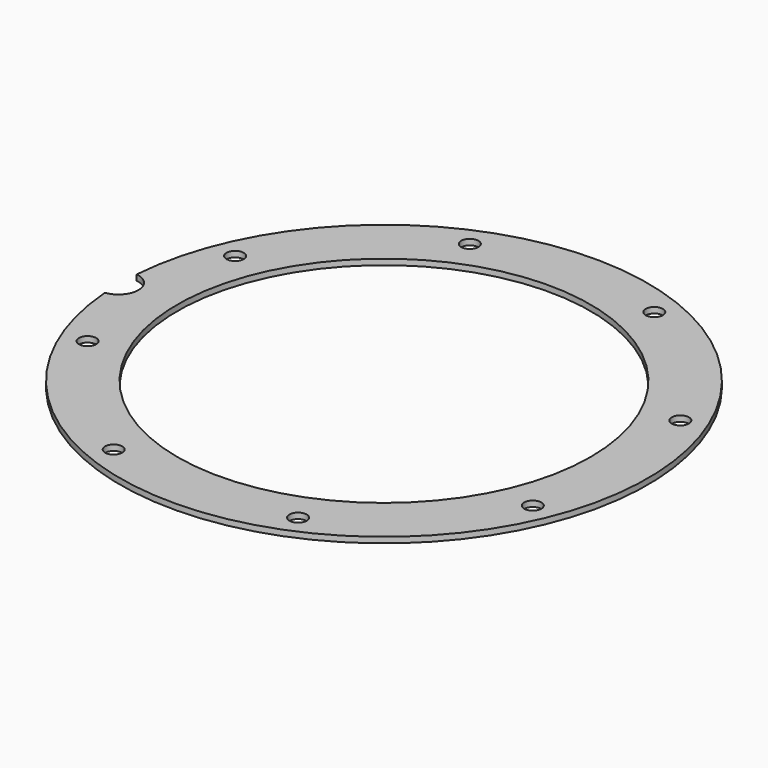
from build123d import *

# Parameters (mm, degrees)
BOX376_W                     = 6
BOX376_H                     = 8
BOX376_DEPTH                 = 2
BOX376_PLACEMENT_ANGLE       = 45
BOX380_W                     = 6
BOX380_H                     = 8
BOX380_DEPTH                 = 2
BOX379_W                     = 6
BOX379_H                     = 8
BOX379_DEPTH                 = 2
BOX390_W                     = 6
BOX390_H                     = 8
BOX390_DEPTH                 = 2
BOX390_PLACEMENT_ANGLE       = 135
BOX382_W                     = 6
BOX382_H                     = 8
BOX382_DEPTH                 = 2
BOX383_W                     = 6
BOX383_H                     = 8
BOX383_DEPTH                 = 2
BOX383_PLACEMENT_ANGLE       = 225
BOX371_W                     = 6
BOX371_H                     = 8
BOX371_DEPTH                 = 2
BOX386_W                     = 6
BOX386_H                     = 8
BOX386_DEPTH                 = 2
BOX386_PLACEMENT_ANGLE       = 45
COMPOUND823_PLACEMENT_ANGLE  = 22.5
CYLINDER1011_R               = 1.5
CYLINDER1011_DEPTH           = 12
CYLINDER1011_PLACEMENT_ANGLE = 45
CYLINDER1015_R               = 1.5
CYLINDER1015_DEPTH           = 12
CYLINDER1016_R               = 1.5
CYLINDER1016_DEPTH           = 12
CYLINDER1016_PLACEMENT_ANGLE = 135
CYLINDER1012_R               = 1.5
CYLINDER1012_DEPTH           = 12
CYLINDER1013_R               = 1.5
CYLINDER1013_DEPTH           = 12
CYLINDER1013_PLACEMENT_ANGLE = 225
CYLINDER1020_R               = 1.5
CYLINDER1020_DEPTH           = 12
CYLINDER1010_R               = 1.5
CYLINDER1010_DEPTH           = 12
CYLINDER1010_PLACEMENT_ANGLE = 45
CYLINDER1017_R               = 1.5
CYLINDER1017_DEPTH           = 12
COMPOUND820_PLACEMENT_ANGLE  = 22.5
CYLINDER1005_R               = 3.5
CYLINDER1005_DEPTH           = 20
TUBE084_R                    = 46
TUBE084_R_2                  = 36
TUBE084_DEPTH                = 1


with BuildPart() as krychle376:
    # Box376 → Box376 (new body)
    with BuildSketch(Plane.XY):
        with Locations((3, 4)):
            Rectangle(BOX376_W, BOX376_H)
    extrude(amount=BOX376_DEPTH)


with BuildPart() as krychle376_1:
    # Box376 placement: moved
    add(krychle376.part.moved(Location((30.405592, -34.648232, 33))).rotate(Axis((30.405592, -34.648232, 33), (0, 0, 1)), BOX376_PLACEMENT_ANGLE))


with BuildPart() as krychle380:
    # Box380 → Box380 (new body)
    with BuildSketch(Plane(origin=(46, -3, 33), x_dir=(0, 1, 0), z_dir=(0, 0, 1))):
        with Locations((3, 4)):
            Rectangle(BOX380_W, BOX380_H)
    extrude(amount=BOX380_DEPTH)


with BuildPart() as krychle379:
    # Box379 → Box379 (new body)
    with BuildSketch(Plane(origin=(-3, -46, 33), x_dir=(1, 0, 0), z_dir=(0, 0, 1))):
        with Locations((3, 4)):
            Rectangle(BOX379_W, BOX379_H)
    extrude(amount=BOX379_DEPTH)


with BuildPart() as krychle390:
    # Box390 → Box390 (new body)
    with BuildSketch(Plane.XY):
        with Locations((3, 4)):
            Rectangle(BOX390_W, BOX390_H)
    extrude(amount=BOX390_DEPTH)


with BuildPart() as krychle390_1:
    # Box390 placement: moved
    add(krychle390.part.moved(Location((34.648232, 30.405592, 33))).rotate(Axis((34.648232, 30.405592, 33), (0, 0, 1)), BOX390_PLACEMENT_ANGLE))


with BuildPart() as krychle382:
    # Box382 → Box382 (new body)
    with BuildSketch(Plane(origin=(3, 46, 33), x_dir=(-1, 0, 0), z_dir=(0, 0, 1))):
        with Locations((3, 4)):
            Rectangle(BOX382_W, BOX382_H)
    extrude(amount=BOX382_DEPTH)


with BuildPart() as krychle383:
    # Box383 → Box383 (new body)
    with BuildSketch(Plane.XY):
        with Locations((3, 4)):
            Rectangle(BOX383_W, BOX383_H)
    extrude(amount=BOX383_DEPTH)


with BuildPart() as krychle383_1:
    # Box383 placement: moved
    add(krychle383.part.moved(Location((-30.405592, 34.648232, 33))).rotate(Axis((-30.405592, 34.648232, 33), (0, 0, 1)), BOX383_PLACEMENT_ANGLE))


with BuildPart() as krychle371:
    # Box371 → Box371 (new body)
    with BuildSketch(Plane(origin=(-46, 3, 33), x_dir=(0, -1, 0), z_dir=(0, 0, 1))):
        with Locations((3, 4)):
            Rectangle(BOX371_W, BOX371_H)
    extrude(amount=BOX371_DEPTH)


with BuildPart() as compound823:
    # Box386 → Box386 (new body)
    with BuildSketch(Plane.XY):
        with Locations((3, 4)):
            Rectangle(BOX386_W, BOX386_H)
    extrude(amount=BOX386_DEPTH)


with BuildPart() as compound823_1:
    # Box386 placement: moved
    add(compound823.part.moved(Location((-34.648232, -30.405592, 33))).rotate(Axis((-34.648232, -30.405592, 33), (0, 0, -1)), BOX386_PLACEMENT_ANGLE))

    # Compound823: union Krychle376, Krychle380, Krychle379, Krychle390, Krychle382, Krychle383, Krychle371
    add(krychle376_1.part)
    add(krychle380.part)
    add(krychle379.part)
    add(krychle390_1.part)
    add(krychle382.part)
    add(krychle383_1.part)
    add(krychle371.part)


with BuildPart() as compound823_2:
    # Compound823 placement: moved
    add(compound823_1.part.rotate(Axis((0, 0, 0), (0, 0, 1)), COMPOUND823_PLACEMENT_ANGLE))


with BuildPart() as obj1:
    # Cylinder1011 → Cylinder1011 (new body)
    with BuildSketch(Plane.XY):
        Circle(CYLINDER1011_R)
    extrude(amount=CYLINDER1011_DEPTH)


with BuildPart() as obj1_1:
    # Cylinder1011 placement: moved
    add(obj1.part.moved(Location((29.698485, -29.698485, 33.5))).rotate(Axis((29.698485, -29.698485, 33.5), (0, 0, 1)), CYLINDER1011_PLACEMENT_ANGLE))


with BuildPart() as obj2:
    # Cylinder1015 → Cylinder1015 (new body)
    with BuildSketch(Plane(origin=(42, 0, 33.5), x_dir=(0, 1, 0), z_dir=(0, 0, 1))):
        Circle(CYLINDER1015_R)
    extrude(amount=CYLINDER1015_DEPTH)


with BuildPart() as obj3:
    # Cylinder1016 → Cylinder1016 (new body)
    with BuildSketch(Plane.XY):
        Circle(CYLINDER1016_R)
    extrude(amount=CYLINDER1016_DEPTH)


with BuildPart() as obj3_1:
    # Cylinder1016 placement: moved
    add(obj3.part.moved(Location((29.698485, 29.698485, 33.5))).rotate(Axis((29.698485, 29.698485, 33.5), (0, 0, 1)), CYLINDER1016_PLACEMENT_ANGLE))


with BuildPart() as obj4:
    # Cylinder1012 → Cylinder1012 (new body)
    with BuildSketch(Plane(origin=(0, 42, 33.5), x_dir=(-1, 0, 0), z_dir=(0, 0, 1))):
        Circle(CYLINDER1012_R)
    extrude(amount=CYLINDER1012_DEPTH)


with BuildPart() as obj5:
    # Cylinder1013 → Cylinder1013 (new body)
    with BuildSketch(Plane.XY):
        Circle(CYLINDER1013_R)
    extrude(amount=CYLINDER1013_DEPTH)


with BuildPart() as obj5_1:
    # Cylinder1013 placement: moved
    add(obj5.part.moved(Location((-29.698485, 29.698485, 33.5))).rotate(Axis((-29.698485, 29.698485, 33.5), (0, 0, 1)), CYLINDER1013_PLACEMENT_ANGLE))


with BuildPart() as obj6:
    # Cylinder1020 → Cylinder1020 (new body)
    with BuildSketch(Plane(origin=(-42, 0, 33.5), x_dir=(0, -1, 0), z_dir=(0, 0, 1))):
        Circle(CYLINDER1020_R)
    extrude(amount=CYLINDER1020_DEPTH)


with BuildPart() as obj7:
    # Cylinder1010 → Cylinder1010 (new body)
    with BuildSketch(Plane.XY):
        Circle(CYLINDER1010_R)
    extrude(amount=CYLINDER1010_DEPTH)


with BuildPart() as obj7_1:
    # Cylinder1010 placement: moved
    add(obj7.part.moved(Location((-29.698485, -29.698485, 33.5))).rotate(Axis((-29.698485, -29.698485, 33.5), (0, 0, -1)), CYLINDER1010_PLACEMENT_ANGLE))


with BuildPart() as compound820:
    # Cylinder1017 → Cylinder1017 (new body)
    with BuildSketch(Plane(origin=(0, -42, 33.5), x_dir=(1, 0, 0), z_dir=(0, 0, 1))):
        Circle(CYLINDER1017_R)
    extrude(amount=CYLINDER1017_DEPTH)

    # Compound820: union obj1, obj2, obj3, obj4, obj5, obj6, obj7
    add(obj1_1.part)
    add(obj2.part)
    add(obj3_1.part)
    add(obj4.part)
    add(obj5_1.part)
    add(obj6.part)
    add(obj7_1.part)


with BuildPart() as compound820_1:
    # Compound820 placement: moved
    add(compound820.part.rotate(Axis((0, 0, 0), (0, 0, 1)), COMPOUND820_PLACEMENT_ANGLE))


with BuildPart() as obj8:
    # Cylinder1005 → Cylinder1005 (new body)
    with BuildSketch(Plane(origin=(-46.3, 0, 29), x_dir=(1, 0, 0), z_dir=(0, 0, 1))):
        Circle(CYLINDER1005_R)
    extrude(amount=CYLINDER1005_DEPTH)


with BuildPart() as cut366:
    # Tube084 → Tube084 (new body)
    with BuildSketch(Plane.XY.offset(37)):
        Circle(TUBE084_R)
        Circle(TUBE084_R_2, mode=Mode.SUBTRACT)
    extrude(amount=TUBE084_DEPTH)

    # Cut364: cut obj8
    add(obj8.part, mode=Mode.SUBTRACT)

    # Cut368: cut Compound820
    add(compound820_1.part, mode=Mode.SUBTRACT)

    # Cut366: cut Compound823
    add(compound823_2.part, mode=Mode.SUBTRACT)


solid = cut366.part
